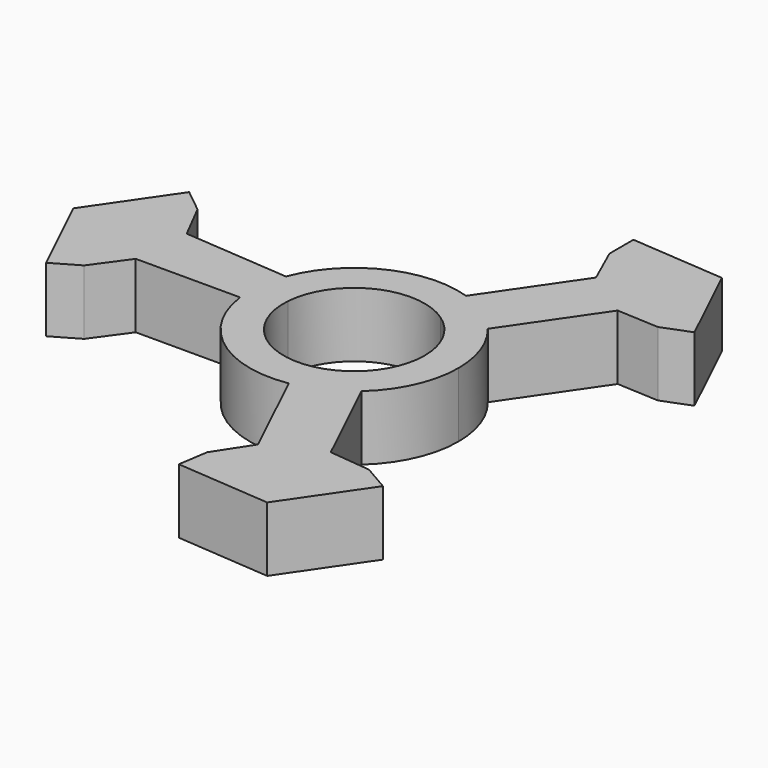
from build123d import *

# Parameters (mm, degrees)
F1_DEPTH = 10


with BuildPart() as f1:
    # F0 (on Top) → F1 (new body)
    with BuildSketch(Plane.XY):
        with BuildLine():
            ThreePointArc((10.752853, -12.026836), (14.726553, -6.58766), (16.132843, 0))
            ThreePointArc((16.132843, 0), (15.190162, 5.433931), (12.472284, 10.232827))
            ThreePointArc((12.472284, 10.232827), (10.904379, 11.889624), (9.118473, 13.308722))
            Line((9.118473, 13.308722), (6.160808, 8.99191))
            ThreePointArc((6.160808, 8.99191), (9.642687, 5.082184), (10.9, 0))
            ThreePointArc((10.9, 0), (9.222644, -5.80972), (4.706818, -9.831371))
            Line((4.706818, -9.831371), (6.966455, -14.55119))
            ThreePointArc((6.966455, -14.55119), (8.949109, -13.423192), (10.752853, -12.026836))
        make_face()
        with BuildLine():
            ThreePointArc((9.118473, 13.308722), (10.904379, 11.889624), (12.472284, 10.232827))
            Line((12.472284, 10.232827), (21.740833, 23.76059))
            Line((21.740833, 23.76059), (18.02425, 26.307007))
            Line((18.02425, 26.307007), (9.118473, 13.308722))
        make_face()
        with BuildLine():
            Line((17.833965, -26.817516), (10.752853, -12.026836))
            ThreePointArc((10.752853, -12.026836), (8.949109, -13.423192), (6.966455, -14.55119))
            Line((6.966455, -14.55119), (13.770411, -28.762962))
            Line((13.770411, -28.762962), (17.833965, -26.817516))
        make_face()
        with BuildLine():
            Line((6.160808, 8.99191), (9.118473, 13.308722))
            ThreePointArc((9.118473, 13.308722), (7.15027, 14.461752), (5.039119, 15.325662))
            ThreePointArc((5.039119, 15.325662), (-6.966455, 14.55119), (-15.098031, 5.684902))
            ThreePointArc((-15.098031, 5.684902), (-15.748906, 3.498658), (-16.084928, 1.242468))
            Line((-16.084928, 1.242468), (-10.867626, 0.839462))
            ThreePointArc((-10.867626, 0.839462), (-4.706818, 9.831371), (6.160808, 8.99191))
        make_face()
        with BuildLine():
            ThreePointArc((5.039119, 15.325662), (7.15027, 14.461752), (9.118473, 13.308722))
            Line((9.118473, 13.308722), (18.02425, 26.307007))
            Line((18.02425, 26.307007), (14.307668, 28.853424))
            Line((14.307668, 28.853424), (5.039119, 15.325662))
        make_face()
        Polygon((18.02425, 26.307007), (21.740833, 23.76059), (28.204425, 23.425037), (32.530065, 25.09989), (26.231622, 38.285945), align=None)
        with BuildLine():
            Line((13.770411, -28.762962), (6.966455, -14.55119))
            ThreePointArc((6.966455, -14.55119), (4.844526, -15.388281), (2.625746, -15.917729))
            Line((2.625746, -15.917729), (9.706858, -30.708409))
            Line((9.706858, -30.708409), (13.770411, -28.762962))
        make_face()
        with BuildLine():
            ThreePointArc((2.625746, -15.917729), (4.844526, -15.388281), (6.966455, -14.55119))
            Line((6.966455, -14.55119), (4.706818, -9.831371))
            ThreePointArc((4.706818, -9.831371), (-6.160808, -8.99191), (-10.867626, 0.839462))
            Line((-10.867626, 0.839462), (-16.084928, 1.242468))
            ThreePointArc((-16.084928, 1.242468), (-16.127914, -0.398785), (-16.003865, -2.035909))
            ThreePointArc((-16.003865, -2.035909), (-9.639489, -12.93634), (2.625746, -15.917729))
        make_face()
        Polygon((24.272413, -27.478572), (17.833965, -26.817516), (13.770411, -28.762962), (20.04079, -41.860224), (28.289529, -29.797855), align=None)
        Polygon((14.307668, 28.853424), (18.02425, 26.307007), (26.231622, 38.285945), (11.660935, 39.398378), (11.660935, 34.759812), align=None)
        Polygon((20.04079, -41.860224), (13.770411, -28.762962), (9.706858, -30.708409), (6.184465, -36.138267), (5.47211, -40.721808), align=None)
        with BuildLine():
            ThreePointArc((-16.084928, 1.242468), (-15.748906, 3.498658), (-15.098031, 5.684902))
            Line((-15.098031, 5.684902), (-31.447691, 6.947819))
            Line((-31.447691, 6.947819), (-31.794661, 2.455955))
            Line((-31.794661, 2.455955), (-16.084928, 1.242468))
        make_face()
        with BuildLine():
            Line((-32.141632, -2.035909), (-16.003865, -2.035909))
            ThreePointArc((-16.003865, -2.035909), (-16.127914, -0.398785), (-16.084928, 1.242468))
            Line((-16.084928, 1.242468), (-31.794661, 2.455955))
            Line((-31.794661, 2.455955), (-32.141632, -2.035909))
        make_face()
        Polygon((-31.794661, 2.455955), (-31.447691, 6.947819), (-34.38889, 12.71323), (-38.002175, 15.621918), (-46.272412, 3.574278), align=None)
        Polygon((-35.933348, -7.281241), (-32.141632, -2.035909), (-31.794661, 2.455955), (-46.272412, 3.574278), (-39.950464, -9.600524), align=None)
    extrude(amount=F1_DEPTH)


solid = f1.part
